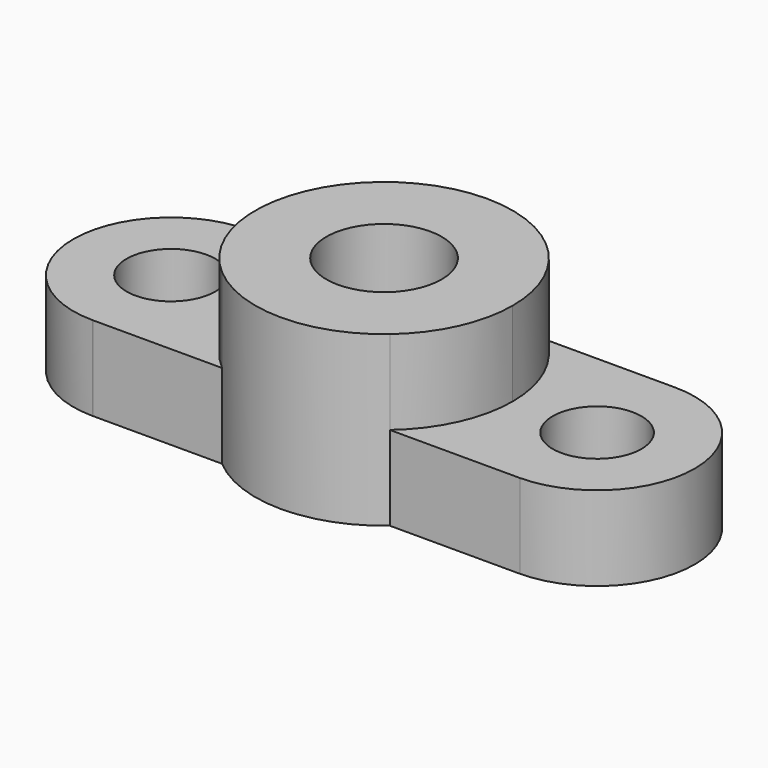
from build123d import *

# Parameters (mm, degrees)
F0_R     = 13
F1_DEPTH = 38
F0_R_2   = 10
F2_DEPTH = 19


with BuildPart() as f1:
    # F0 (on Top) → F1 (new body)
    with BuildSketch(Plane.XY):
        with BuildLine():
            ThreePointArc((18.895579, -21.999025), (26.3531, -12.104301), (29, 0))
            ThreePointArc((29, 0), (26.353016, 12.104485), (18.895272, 21.999288))
            ThreePointArc((18.895272, 21.999288), (0.000503, 29), (-18.894509, 21.999944))
            ThreePointArc((-18.894509, 21.999944), (-29, -3.2e-05), (-18.894461, -21.999985))
            ThreePointArc((-18.894461, -21.999985), (0.000737, -29), (18.895579, -21.999025))
        make_face()
        Circle(F0_R, mode=Mode.SUBTRACT)
    extrude(amount=F1_DEPTH)

    # F0 (on Top) → F2 (join)
    with BuildSketch(Plane.XY):
        with BuildLine():
            ThreePointArc((18.895272, 21.999288), (26.353016, 12.104485), (29, 0))
            ThreePointArc((29, 0), (26.3531, -12.104301), (18.895579, -21.999025))
            Line((18.895579, -21.999025), (47.792855, -21.999025))
            Line((47.792855, -21.999025), (48.207145, -21.999025))
            ThreePointArc((48.207145, -21.999025), (69.999162, 0.192041), (47.823064, 21.999288))
            Line((47.823064, 21.999288), (18.895272, 21.999288))
        make_face()
        with Locations((48, 0)):
            Circle(F0_R_2, mode=Mode.SUBTRACT)
        with BuildLine():
            ThreePointArc((-18.894461, -21.999985), (-29, -3.2e-05), (-18.894509, 21.999944))
            Line((-18.894509, 21.999944), (-47.950196, 21.999944))
            ThreePointArc((-47.950196, 21.999944), (-48, 22), (-48.049804, 21.999944))
            ThreePointArc((-48.049804, 21.999944), (-69.999997, -0.012047), (-48.025711, -21.999985))
            ThreePointArc((-48.025711, -21.999985), (-48, -22), (-47.974289, -21.999985))
            Line((-47.974289, -21.999985), (-18.894461, -21.999985))
        make_face()
        with Locations((-48, 0)):
            Circle(F0_R_2, mode=Mode.SUBTRACT)
    extrude(amount=F2_DEPTH)


solid = f1.part
